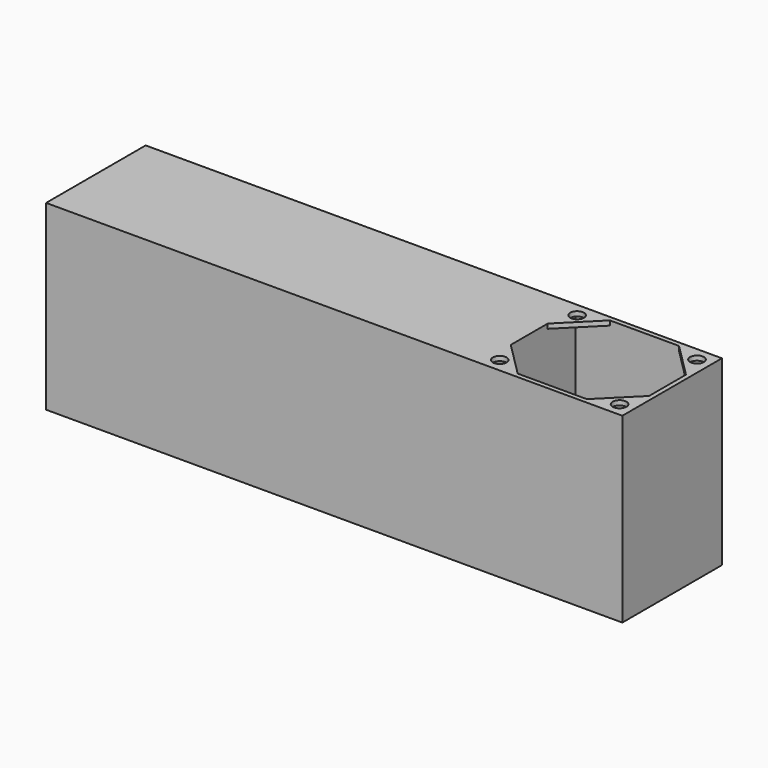
from build123d import *

# Parameters (mm, degrees)
STRUCTURESKETCH002_W      = 250
STRUCTURESKETCH002_H      = 54
MAINSTRUCTURE002_DEPTH    = 79
OBJ1           = 3
CENTERPOCKET002_DEPTH     = 79
OBJ2       = 60
OBJ3       = 50
OBJ4 = 77


with BuildPart() as part:
    # StructureSketch002 → MainStructure002 (new body)
    with BuildSketch(Plane.XY):
        Rectangle(STRUCTURESKETCH002_W, STRUCTURESKETCH002_H)
    extrude(amount=MAINSTRUCTURE002_DEPTH)

    with BuildSketch(Plane(origin=(93, 0, 0), x_dir=(1, 0, 0), z_dir=(0, 0, 1))):
        with Locations((-26, 21)):
            Circle(OBJ1)
        with Locations((26, 21)):
            Circle(OBJ1)
        with Locations((26, -21)):
            Circle(OBJ1)
        with Locations((-26, -21)):
            Circle(OBJ1)
        Polygon((-15, 25), (15, 25), (30, 10), (30, -10), (15, -25), (-15, -25), (-30, -10), (-30, 10), align=None)
    extrude(amount=CENTERPOCKET002_DEPTH, mode=Mode.SUBTRACT)

    with BuildSketch(Plane(origin=(93, 0, 0), x_dir=(1, 0, 0), z_dir=(0, 0, 1))):
        Rectangle(OBJ2, OBJ3)
    extrude(amount=OBJ4, mode=Mode.SUBTRACT)


solid = part.part
